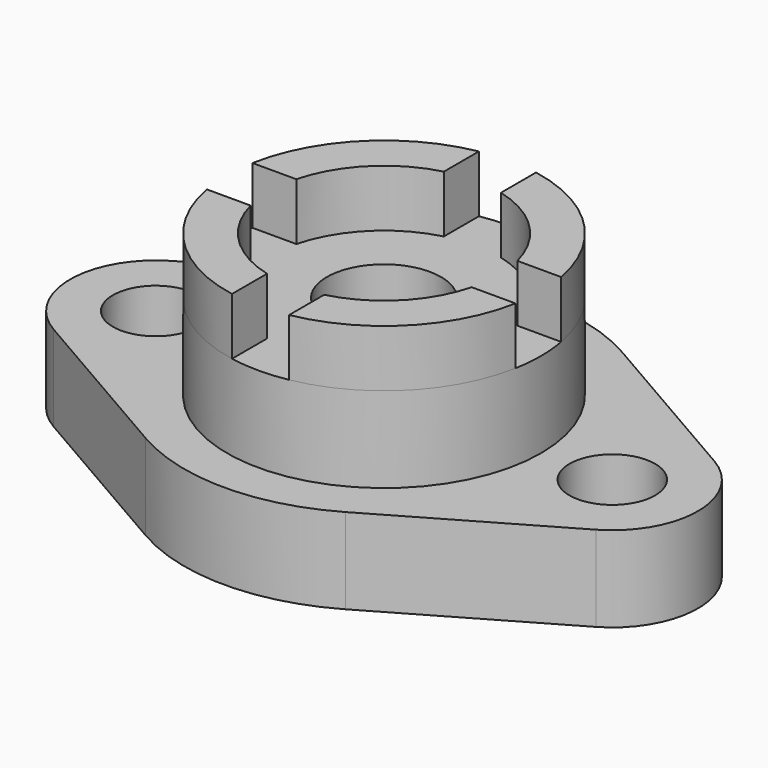
from build123d import *

# Parameters (mm, degrees)
F0_R     = 9.525
F0_R_2   = 12.7
F1_DEPTH = 19.05
F2_R     = 34.925
F2_R_2   = 12.7
F3_DEPTH = 19.05
F5_DEPTH = 12.7


with BuildPart() as f1:
    # F0 (on Top) → F1 (new body)
    with BuildSketch(Plane.XY):
        with BuildLine():
            Line((-37.419644, -16.497784), (0.680356, -38.494829))
            ThreePointArc((0.680356, -38.494829), (22.905356, -44.45), (45.130356, -38.494829))
            Line((45.130356, -38.494829), (83.230356, -16.497784))
            ThreePointArc((83.230356, -16.497784), (92.755356, 0), (83.230356, 16.497784))
            Line((83.230356, 16.497784), (45.130356, 38.494829))
            ThreePointArc((45.130356, 38.494829), (22.905356, 44.45), (0.680356, 38.494829))
            Line((0.680356, 38.494829), (-37.419644, 16.497784))
            ThreePointArc((-37.419644, 16.497784), (-46.944644, 0), (-37.419644, -16.497784))
        make_face()
        with Locations((-27.894644, 0)):
            Circle(F0_R, mode=Mode.SUBTRACT)
        with Locations((22.905356, 0)):
            Circle(F0_R_2, mode=Mode.SUBTRACT)
        with Locations((73.705356, 0)):
            Circle(F0_R, mode=Mode.SUBTRACT)
    extrude(amount=F1_DEPTH)

    # F2 (on face) → F3 (join)
    with BuildSketch(Plane.XY.offset(19.05)):
        with Locations((22.905356, 0)):
            Circle(F2_R)
        with Locations((22.905356, 0)):
            Circle(F2_R_2, mode=Mode.SUBTRACT)
    extrude(amount=F3_DEPTH)

    # F4 (on face) → F5 (join)
    with BuildSketch(Plane.XY.offset(38.1)):
        with BuildLine():
            Line((53.067856, 6.35), (57.248232, 6.35))
            ThreePointArc((57.248232, 6.35), (47.60106, 24.695704), (29.255356, 34.342876))
            Line((29.255356, 34.342876), (29.255356, 30.1625))
            Line((29.255356, 30.1625), (29.255356, 24.593444))
            ThreePointArc((29.255356, 24.593444), (40.865868, 17.960512), (47.4988, 6.35))
            Line((47.4988, 6.35), (53.067856, 6.35))
        make_face()
        with BuildLine():
            Line((29.255356, -24.593444), (29.255356, -30.1625))
            Line((29.255356, -30.1625), (29.255356, -34.342876))
            ThreePointArc((29.255356, -34.342876), (47.60106, -24.695704), (57.248232, -6.35))
            Line((57.248232, -6.35), (53.067856, -6.35))
            Line((53.067856, -6.35), (47.4988, -6.35))
            ThreePointArc((47.4988, -6.35), (40.865868, -17.960512), (29.255356, -24.593444))
        make_face()
        with BuildLine():
            Line((16.555356, -34.342876), (16.555356, -30.1625))
            Line((16.555356, -30.1625), (16.555356, -24.593444))
            ThreePointArc((16.555356, -24.593444), (4.944843, -17.960512), (-1.688089, -6.35))
            Line((-1.688089, -6.35), (-7.257144, -6.35))
            Line((-7.257144, -6.35), (-11.43752, -6.35))
            ThreePointArc((-11.43752, -6.35), (-1.790349, -24.695704), (16.555356, -34.342876))
        make_face()
        with BuildLine():
            Line((-11.43752, 6.35), (-7.257144, 6.35))
            Line((-7.257144, 6.35), (-1.688089, 6.35))
            ThreePointArc((-1.688089, 6.35), (4.944843, 17.960512), (16.555356, 24.593444))
            Line((16.555356, 24.593444), (16.555356, 30.1625))
            Line((16.555356, 30.1625), (16.555356, 34.342876))
            ThreePointArc((16.555356, 34.342876), (-1.790349, 24.695704), (-11.43752, 6.35))
        make_face()
    extrude(amount=F5_DEPTH)


solid = f1.part
